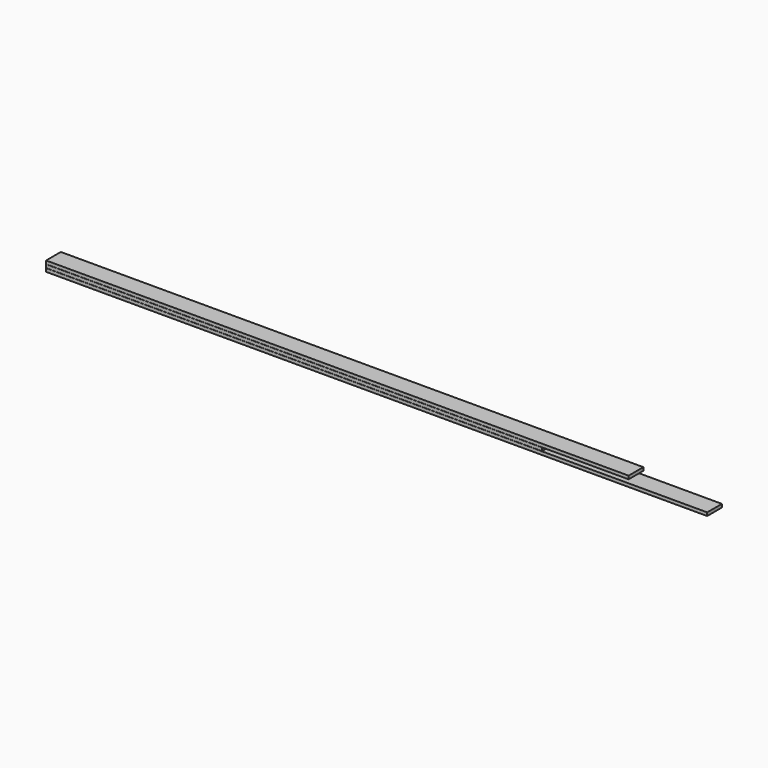
from build123d import *

# Parameters (mm, degrees)
F0_W     = 136
F0_H     = 24
F1_DEPTH = 4880
F2_DEPTH = 3660
F3_DEPTH = 4300


with BuildPart() as f1:
    # F0 (on Right) → F1 (new body)
    with BuildSketch(Plane.YZ):
        with Locations((-68, 12)):
            Rectangle(F0_W, F0_H)
    extrude(amount=F1_DEPTH)


with BuildPart() as f2:
    # F0 (on Right) → F2 (new body)
    with BuildSketch(Plane.YZ):
        with Locations((-68, 37)):
            Rectangle(F0_W, F0_H)
    extrude(amount=F2_DEPTH)


with BuildPart() as f3:
    # F0 (on Right) → F3 (new body)
    with BuildSketch(Plane.YZ):
        with Locations((-68, 62)):
            Rectangle(F0_W, F0_H)
    extrude(amount=F3_DEPTH)


solid = Compound([f1.part, f2.part, f3.part])
